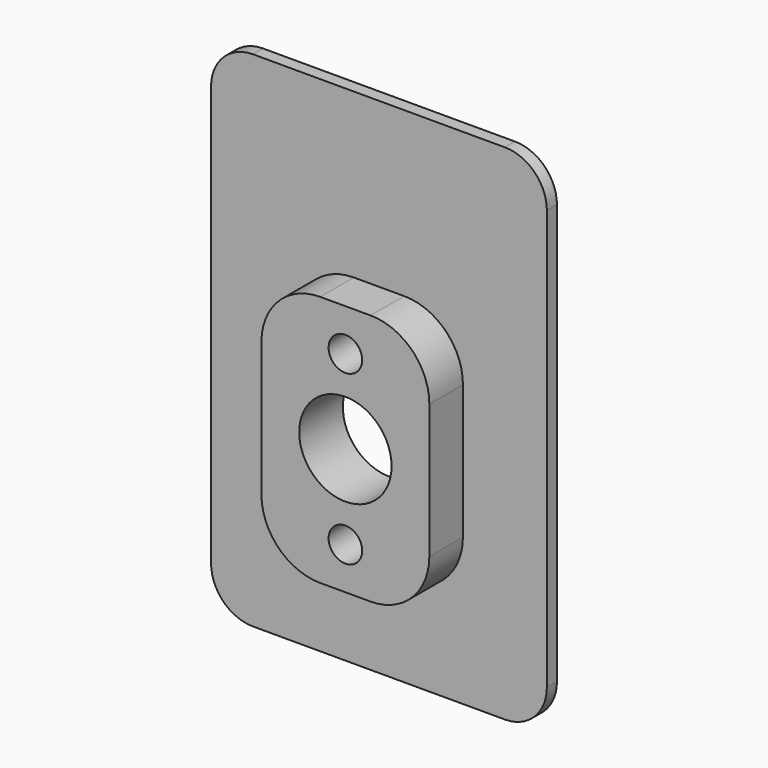
from build123d import *

# Parameters (mm, degrees)
F0_W     = 40
F0_H     = 60
F0_R     = 5.5
F1_DEPTH = 1.5
F2_W     = 20
F2_H     = 30
F2_R     = 5.5
F3_DEPTH = 5
F4_R     = 2
F5_DEPTH = 4
F6_R     = 7
F7_R     = 5


with BuildPart() as f1:
    # F0 (on Front) → F1 (new body)
    with BuildSketch(Plane.XZ):
        with Locations((0, 4.5)):
            Rectangle(F0_W, F0_H)
        Circle(F0_R, mode=Mode.SUBTRACT)
    extrude(amount=F1_DEPTH)

    # F2 (on face) → F3 (join)
    with BuildSketch(Plane.XZ.offset(1.5)):
        Rectangle(F2_W, F2_H)
        Circle(F2_R, mode=Mode.SUBTRACT)
    extrude(amount=F3_DEPTH)

    # F4 (on face) → F5 (cut)
    with BuildSketch(Plane.XZ.offset(6.5)):
        with Locations((0, 10)):
            Circle(F4_R)
        with Locations((0, -10)):
            Circle(F4_R)
    extrude(amount=-F5_DEPTH, mode=Mode.SUBTRACT)

    # F6
    f6_edges = [f1.edges().sort_by_distance(p)[0] for p in [
        (10, -4, 15),
        (-10, -4, 15),
        (10, -4, -15),
        (-10, -4, -15),
    ]]
    fillet(f6_edges, radius=F6_R)

    # F7
    f7_edges = [f1.edges().sort_by_distance(p)[0] for p in [
        (20, -0.75, 34.5),
        (20, -0.75, -25.5),
        (-20, -0.75, -25.5),
        (-20, -0.75, 34.5),
    ]]
    fillet(f7_edges, radius=F7_R)


solid = f1.part
